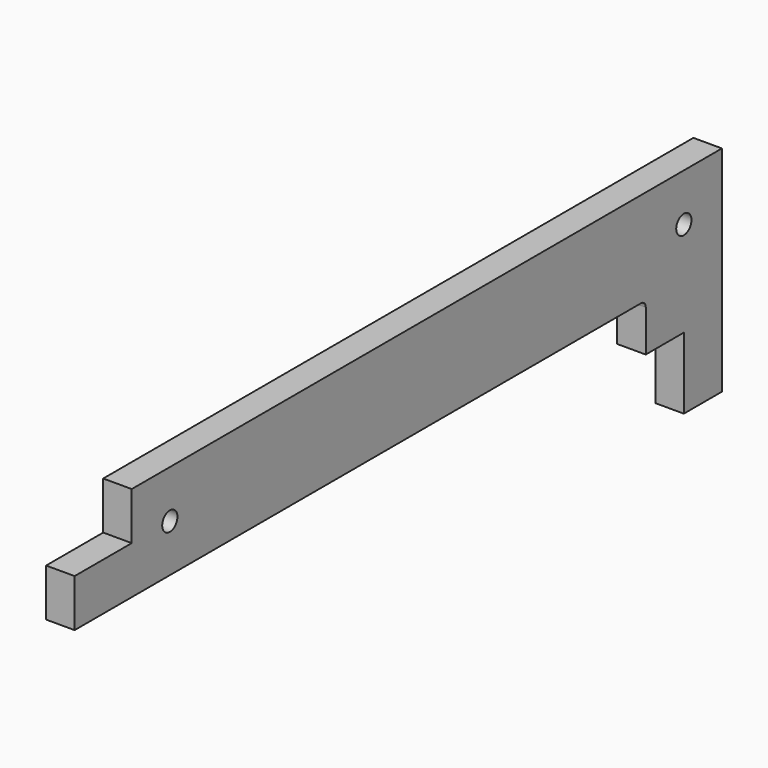
from build123d import *

# Parameters (mm, degrees)
F0_R     = 2
F1_DEPTH = 6


with BuildPart() as f1:
    # F0 (on Right) → F1 (new body)
    with BuildSketch(Plane.YZ):
        with BuildLine():
            Line((-150, 250), (-1.27, 250))
            ThreePointArc((-1.27, 250), (-0.371974, 249.628026), (0, 248.73))
            Line((0, 248.73), (0, 240))
            Line((0, 240), (10, 240))
            Line((10, 240), (10, 225))
            Line((10, 225), (20, 225))
            Line((20, 225), (20, 270))
            Line((20, 270), (-135, 270))
            Line((-135, 270), (-135, 260))
            Line((-135, 260), (-150, 260))
            Line((-150, 260), (-150, 250))
        make_face()
        with Locations((-125, 260)):
            Circle(F0_R, mode=Mode.SUBTRACT)
        with Locations((10, 260)):
            Circle(F0_R, mode=Mode.SUBTRACT)
    extrude(amount=F1_DEPTH)


solid = f1.part
